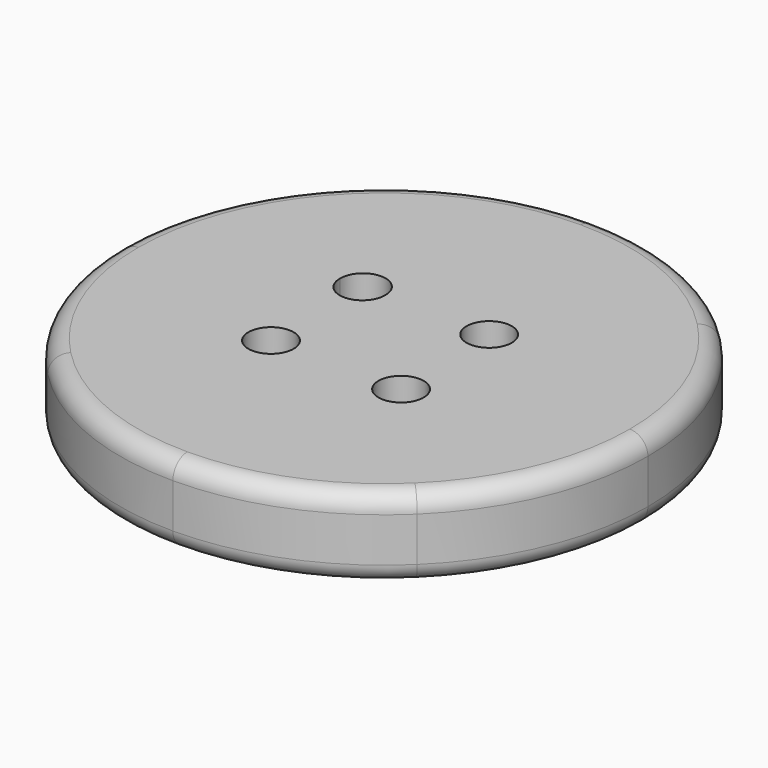
from build123d import *

# Parameters (mm, degrees)
F1_DEPTH   = 22.606
F2_R       = 5.08
F5_D       = 12.7
F5_ON_F4_D = 12.7


with BuildPart() as f1:
    # F0 (on Top) → F1 (new body)
    with BuildSketch(Plane.XY):
        with BuildLine():
            ThreePointArc((0, -74.1540131918), (27.9531270487, -68.6836251274), (51.7820146668, -53.0795688518))
            Line((51.7820146668, -53.0795688518), (0, 0))
            Line((0, 0), (0, -74.1540131918))
        make_face()
        with BuildLine():
            ThreePointArc((51.7820146668, -53.0795688518), (68.3325027755, -28.8008113926), (74.1540131918, 0))
            Line((74.1540131918, 0), (0, 0))
            Line((0, 0), (51.7820146668, -53.0795688518))
        make_face()
        with BuildLine():
            Line((0, 0), (74.1540131918, 0))
            ThreePointArc((74.1540131918, 0), (68.6836251274, 27.9531270487), (53.0795688518, 51.7820146668))
            Line((53.0795688518, 51.7820146668), (0, 0))
        make_face()
        with BuildLine():
            Line((0, 0), (53.0795688518, 51.7820146668))
            ThreePointArc((53.0795688518, 51.7820146668), (28.8008113926, 68.3325027755), (0, 74.1540131918))
            Line((0, 74.1540131918), (0, 0))
        make_face()
        with BuildLine():
            Line((-51.7820146668, 53.0795688518), (0, 0))
            Line((0, 0), (0, 74.1540131918))
            ThreePointArc((0, 74.1540131918), (-27.9531270487, 68.6836251274), (-51.7820146668, 53.0795688518))
        make_face()
        with BuildLine():
            Line((-74.1540131918, 0), (0, 0))
            Line((0, 0), (-51.7820146668, 53.0795688518))
            ThreePointArc((-51.7820146668, 53.0795688518), (-68.3325027755, 28.8008113926), (-74.1540131918, 0))
        make_face()
        with BuildLine():
            Line((-53.0795688518, -51.7820146668), (0, 0))
            Line((0, 0), (-74.1540131918, 0))
            ThreePointArc((-74.1540131918, 0), (-68.6836251274, -27.9531270487), (-53.0795688518, -51.7820146668))
        make_face()
        with BuildLine():
            Line((0, -74.1540131918), (0, 0))
            Line((0, 0), (-53.0795688518, -51.7820146668))
            ThreePointArc((-53.0795688518, -51.7820146668), (-28.8008113926, -68.3325027755), (0, -74.1540131918))
        make_face()
    extrude(amount=F1_DEPTH)

    # F2
    f2_edges = [f1.edges().sort_by_distance(p)[0] for p in [
        (53.079569, 51.782015, 22.606),
        (53.079569, 51.782015, 0),
    ]]
    fillet(f2_edges, radius=F2_R)

    # F5 (through all)
    with Locations(Plane.XY.offset(22.606)):
        with Locations((-18.9406760037, 16.0708744079), (16.8744213879, 15.8412903547), (-18.7110900879, -16.300458461)):
            Hole(F5_D / 2)

    # F5 on F4 (through all)
    with Locations(Plane.XY.offset(22.606)):
        with Locations((18.0223360658, -16.5300425142), (-18.9406760037, 16.300458461)):
            Hole(F5_ON_F4_D / 2)


solid = f1.part
